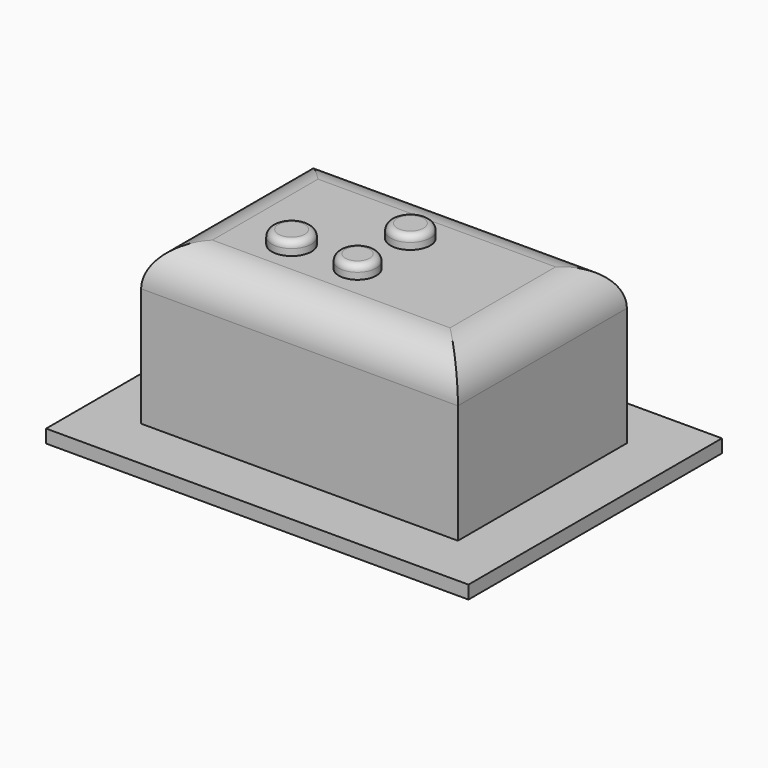
from build123d import *

# Parameters (mm, degrees)
SKETCH_W     = 16
SKETCH_H     = 12
PAD_DEPTH    = 0.5
SKETCH001_W  = 12
SKETCH001_H  = 8
PAD001_DEPTH = 6
FILLET_R     = 1.5
SKETCH002_R  = 0.75
PAD002_DEPTH = 0.5
FILLET001_R  = 0.25
SKETCH003_R  = 0.709805
PAD003_DEPTH = 0.5
FILLET002_R  = 0.25
SKETCH005_R  = 0.75
PAD005_DEPTH = 0.5
FILLET004_R  = 0.25


with BuildPart() as pad:
    # Sketch → Pad (new body)
    with BuildSketch(Plane.XY):
        with Locations((8, 6)):
            Rectangle(SKETCH_W, SKETCH_H)
    extrude(amount=PAD_DEPTH)


with BuildPart() as fillet_body:
    # Sketch001 → Pad001 (new body)
    with BuildSketch(Plane.XY.offset(0.5)):
        with Locations((8, 6)):
            Rectangle(SKETCH001_W, SKETCH001_H)
    extrude(amount=PAD001_DEPTH)

    # Fillet
    fillet_edges = [fillet_body.edges().sort_by_distance(p)[0] for p in [
        (8, 2, 6.5),
        (14, 6, 6.5),
        (8, 10, 6.5),
        (2, 6, 6.5),
    ]]
    fillet(fillet_edges, radius=FILLET_R)


with BuildPart() as fillet001:
    # Sketch002 → Pad002 (new body)
    with BuildSketch(Plane.XY.offset(6.5)):
        with Locations((5.5, 4.75)):
            Circle(SKETCH002_R)
    extrude(amount=PAD002_DEPTH)

    # Fillet001
    fillet001_edges = [fillet001.edges().sort_by_distance(p)[0] for p in [
        (4.75, 4.75, 7),
    ]]
    fillet(fillet001_edges, radius=FILLET001_R)


with BuildPart() as fillet002:
    # Sketch003 → Pad003 (new body)
    with BuildSketch(Plane.XY.offset(6.5)):
        with Locations((8, 4.75)):
            Circle(SKETCH003_R)
    extrude(amount=PAD003_DEPTH)

    # Fillet002
    fillet002_edges = [fillet002.edges().sort_by_distance(p)[0] for p in [
        (7.290195, 4.75, 7),
    ]]
    fillet(fillet002_edges, radius=FILLET002_R)


with BuildPart() as fillet004:
    # Sketch005 → Pad005 (new body)
    with BuildSketch(Plane.XY.offset(6.5)):
        with Locations((8, 7.25)):
            Circle(SKETCH005_R)
    extrude(amount=PAD005_DEPTH)

    # Fillet004
    fillet004_edges = [fillet004.edges().sort_by_distance(p)[0] for p in [
        (7.25, 7.25, 7),
    ]]
    fillet(fillet004_edges, radius=FILLET004_R)


solid = Compound([pad.part, fillet_body.part, fillet001.part, fillet002.part, fillet004.part])
